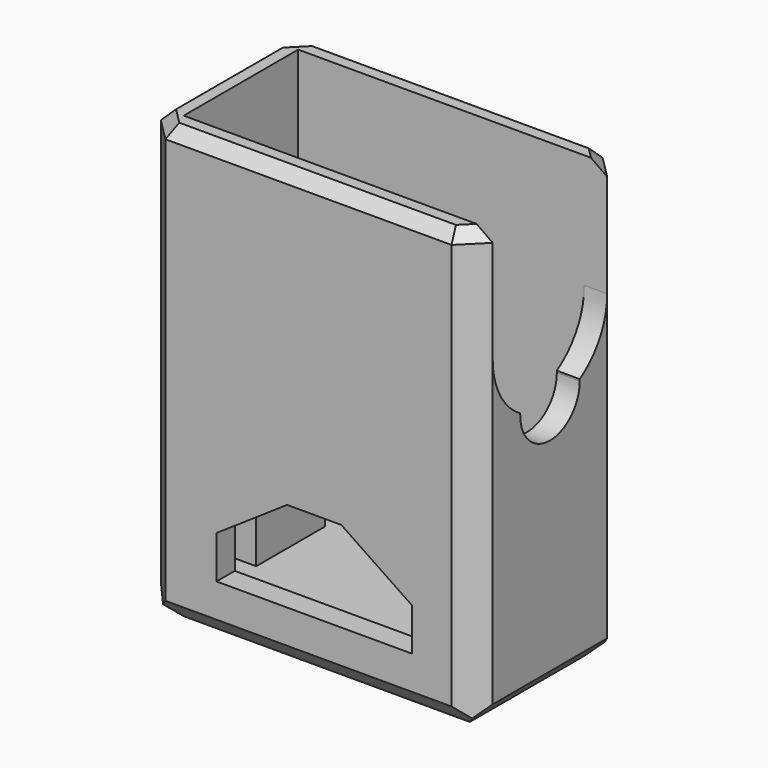
from build123d import *

# Parameters (mm, degrees)
F0_W      = 29
F0_H      = 16.5
F1_DEPTH  = 38.5
F2_T      = -2
F3_DEPTH  = 2.25
F4_SIZE   = 2
F5_SIZE   = 2
F6_SIZE   = 1
F8_DEPTH  = 16.501
F10_DEPTH = 2
F11_R     = 2
F12_DEPTH = 2.001
F13_W     = 7.54
F13_H     = 7.25
F13_R     = 1.1
F14_DEPTH = 4.35


with BuildPart() as f1:
    # F0 (on Top) → F1 (new body)
    with BuildSketch(Plane.XY):
        with Locations((14.5, 8.25)):
            Rectangle(F0_W, F0_H)
    extrude(amount=F1_DEPTH)

    # F2
    f2_openings = [f1.faces().sort_by_distance(p)[0] for p in [
        (14.5, 8.25, 38.5),
    ]]
    offset(amount=F2_T, openings=f2_openings)

    # F3 (add): a face of the model
    f3_faces = [f1.faces().sort_by_distance(p)[0] for p in [
        (14.5, 8.25, 2),
    ]]
    extrude(f3_faces, amount=F3_DEPTH)

    # F4
    f4_edges = [f1.edges().sort_by_distance(p)[0] for p in [
        (29, 0, 19.25),
        (29, 16.5, 19.25),
        (0, 16.5, 19.25),
        (0, 0, 19.25),
    ]]
    chamfer(f4_edges, length=F4_SIZE)

    # F5 (call 1 of 4: OpenCascade refuses the feature's edges together)
    f5_edges = [f1.edges().sort_by_distance(p)[0] for p in [
        (14.5, 0, 0),
    ]]
    chamfer(f5_edges, length=F5_SIZE)

    # F5#2 (call 2 of 4)
    f5_2_edges = [f1.edges().sort_by_distance(p)[0] for p in [
        (29, 8.25, 0),
    ]]
    chamfer(f5_2_edges, length=F5_SIZE)

    # F5#3 (call 3 of 4)
    f5_3_edges = [f1.edges().sort_by_distance(p)[0] for p in [
        (0, 8.25, 0),
    ]]
    chamfer(f5_3_edges, length=F5_SIZE)

    # F5#4 (call 4 of 4)
    f5_4_edges = [f1.edges().sort_by_distance(p)[0] for p in [
        (14.5, 16.5, 0),
    ]]
    chamfer(f5_4_edges, length=F5_SIZE)

    # F6
    f6_edges = [f1.edges().sort_by_distance(p)[0] for p in [
        (29, 8.25, 38.5),
        (28, 15.5, 38.5),
        (14.5, 16.5, 38.5),
        (1, 15.5, 38.5),
        (0, 8.25, 38.5),
        (1, 1, 38.5),
        (14.5, 0, 38.5),
        (28, 1, 38.5),
    ]]
    chamfer(f6_edges, length=F6_SIZE)

    # F7 (on face) → F8 (cut, through all)
    with BuildSketch(Plane.XZ):
        Polygon((6.464, 8.664), (6.464, 4.94), (23.536, 4.94), (23.536, 8.664), (17.364, 12.834), (12.635, 12.834), align=None)
    extrude(amount=-F8_DEPTH, mode=Mode.SUBTRACT)

    # F9 (on face) → F10 (cut, through all)
    with BuildSketch(Plane.YZ.offset(29)):
        with BuildLine():
            ThreePointArc((5.0038961688, 23.1590909091), (8.1704306945, 19.7509741882), (11.5, 23))
            ThreePointArc((11.5, 23), (11.4990258118, 23.0795693055), (11.4961038312, 23.1590909091))
            ThreePointArc((11.4961038312, 23.1590909091), (8.25, 22.25), (5.0038961688, 23.1590909091))
        make_face()
        with BuildLine():
            ThreePointArc((5.0038961688, 23.1590909091), (8.25, 22.25), (11.4961038312, 23.1590909091))
            ThreePointArc((11.4961038312, 23.1590909091), (8.25, 26.25), (5.0038961688, 23.1590909091))
        make_face()
        with BuildLine():
            ThreePointArc((5.0038961688, 23.1590909091), (8.25, 26.25), (11.4961038312, 23.1590909091))
            ThreePointArc((11.4961038312, 23.1590909091), (13.6975062618, 25.4361502113), (14.5, 28.5))
            Line((14.5, 28.5), (2, 28.5))
            ThreePointArc((2, 28.5), (2.8024937382, 25.4361502113), (5.0038961688, 23.1590909091))
        make_face()
        with BuildLine():
            Line((2, 28.5), (14.5, 28.5))
            ThreePointArc((14.5, 28.5), (8.25, 34.75), (2, 28.5))
        make_face()
        with BuildLine():
            ThreePointArc((2, 28.5), (8.25, 34.75), (14.5, 28.5))
            Line((14.5, 28.5), (14.5, 38.5))
            Line((14.5, 38.5), (2, 38.5))
            Line((2, 38.5), (2, 28.5))
        make_face()
    extrude(amount=-F10_DEPTH, mode=Mode.SUBTRACT)

    # F11 (on face) → F12 (cut, through all)
    with BuildSketch(Plane.YZ.offset(2)):
        with Locations((8.25, 23)):
            Circle(F11_R)
    extrude(amount=-F12_DEPTH, mode=Mode.SUBTRACT)

    # F13 (on face) → F14 (join)
    with BuildSketch(Plane.YZ.offset(2)):
        with Locations((8.25, 7.875)):
            Rectangle(F13_W, F13_H)
        with Locations((8.25, 9)):
            Circle(F13_R, mode=Mode.SUBTRACT)
    extrude(amount=F14_DEPTH)


solid = f1.part
